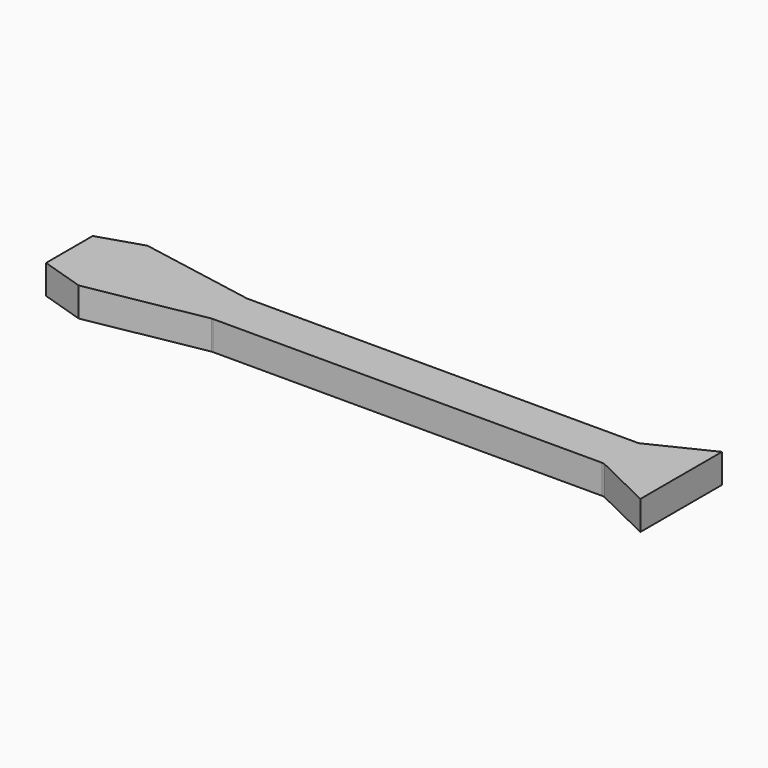
from build123d import *

# Parameters (mm, degrees)
F1_DEPTH = 25.4
F2_R     = 6.35


with BuildPart() as f1:
    # F0 (on Top) → F1 (new body)
    with BuildSketch(Plane.XY):
        Polygon((0, 69.85), (0, 19.05), (38.1, 6.927273), (139.7, 25.4), (481.2284, 25.4), (533.4, 25.4), (533.4, 63.5), (481.2284, 63.5), (139.7, 63.5), (38.1, 81.972727), align=None)
        Polygon((481.2284, 25.4), (533.4, 0), (533.4, 25.4), align=None)
        Polygon((481.2284, 63.5), (533.4, 63.5), (533.4, 88.9), align=None)
    extrude(amount=F1_DEPTH)

    # F2
    f2_edges = [f1.edges().sort_by_distance(p)[0] for p in [
        (139.7, 63.5, 12.7),
        (481.2284, 63.5, 12.7),
        (139.7, 25.4, 12.7),
        (481.2284, 25.4, 12.7),
    ]]
    fillet(f2_edges, radius=F2_R)


solid = f1.part
